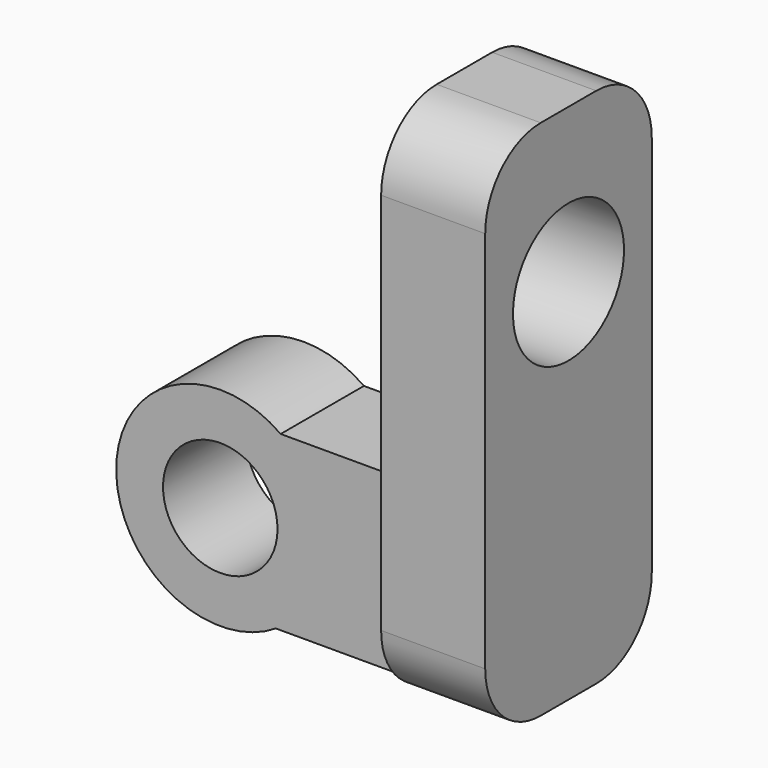
from build123d import *

# Parameters (mm, degrees)
F0_R          = 3
F0_R_2        = 1.65
F1_DEPTH      = 1.5
F1_DEPTH_BACK = 1.5
F3_DEPTH      = 1.5
F3_DEPTH_BACK = 1.5
F4_W          = 3
F4_H          = 15.04355
F5_DEPTH      = 3
F5_DEPTH_BACK = 3
F6_R          = 2
F7_DEPTH      = 25
F8_R          = 2


with BuildPart() as f1:
    # F0 (on Front) → F1 (new body, two sides)
    with BuildSketch(Plane.XZ) as f1_sk:
        Circle(F0_R)
        Circle(F0_R_2, mode=Mode.SUBTRACT)
    extrude(amount=F1_DEPTH)
    extrude(f1_sk.sketch, amount=-F1_DEPTH_BACK)

    # F2 (on Front) → F3 (join, two sides)
    with BuildSketch(Plane.XZ) as f3_sk:
        with BuildLine():
            Line((7.740623, 2.443406), (1.740623, 2.443406))
            ThreePointArc((1.740623, 2.443406), (2.666633, 1.374433), (3, 0))
            ThreePointArc((3, 0), (2.59704, -1.501793), (1.496413, -2.600144))
            Line((1.496413, -2.600144), (7.740623, -2.600144))
            Line((7.740623, -2.600144), (7.740623, 2.443406))
        make_face()
    extrude(amount=F3_DEPTH)
    extrude(f3_sk.sketch, amount=-F3_DEPTH_BACK)

    # F4 (on Front) → F5 (join, two sides)
    with BuildSketch(Plane.XZ) as f5_sk:
        with Locations((7.336591, 4.921631)):
            Rectangle(F4_W, F4_H)
    extrude(amount=F5_DEPTH)
    extrude(f5_sk.sketch, amount=-F5_DEPTH_BACK)

    # F6 (on face) → F7 (cut)
    with BuildSketch(Plane(origin=(5.836591, 0, 0), x_dir=(0, -1, 0), z_dir=(-1, 0, 0))):
        with Locations((0, 8)):
            Circle(F6_R)
    extrude(amount=-F7_DEPTH, mode=Mode.SUBTRACT)

    # F8
    f8_edges = [f1.edges().sort_by_distance(p)[0] for p in [
        (7.336591, -3, 12.443406),
        (7.336591, 3, 12.443406),
        (7.336591, -3, -2.600144),
        (7.336591, 3, -2.600144),
    ]]
    fillet(f8_edges, radius=F8_R)


solid = f1.part
